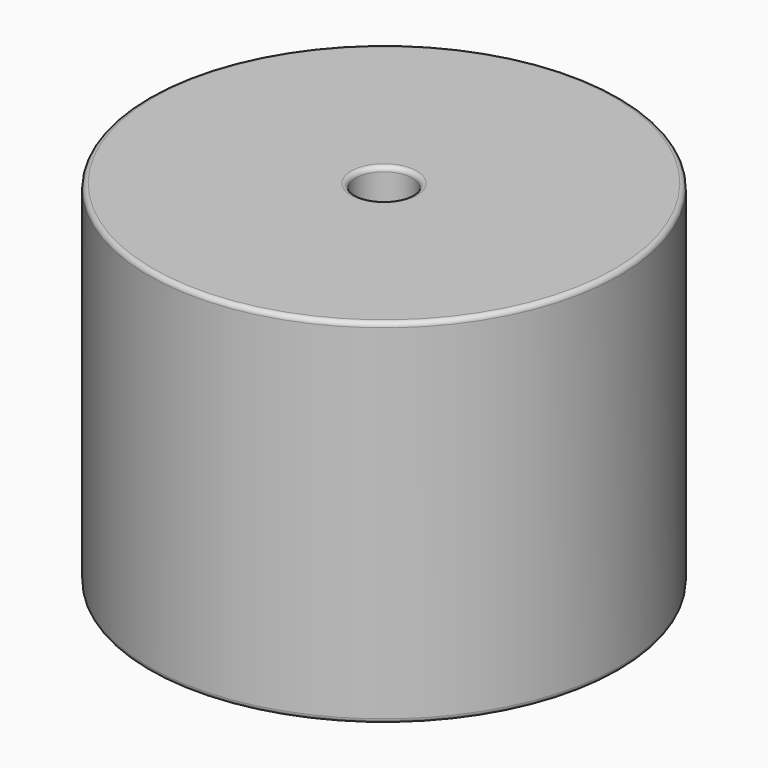
from build123d import *

# Parameters (mm, degrees)
SKETCH001_R       = 0.8
PAD001_DEPTH      = 19.05
PAD001_DEPTH_BACK = 3.5
SKETCH_R          = 25.4
SKETCH_R_2        = 3.05
PAD_DEPTH         = 38.1
FILLET_R          = 0.5


with BuildPart() as pad001:
    # Sketch001 → Pad001 (new body, two sides)
    with BuildSketch(Plane.XY.offset(0.5)) as pad001_sk:
        Circle(SKETCH001_R)
        with Locations((34.29, 0)):
            Circle(SKETCH001_R)
    extrude(amount=PAD001_DEPTH)
    extrude(pad001_sk.sketch, amount=-PAD001_DEPTH_BACK)


with BuildPart() as obj1:
    # Sketch → Pad (new body)
    with BuildSketch(Plane.XY.offset(0.1)):
        with Locations((17.145, 0)):
            Circle(SKETCH_R)
        with Locations((17.145, 0)):
            Circle(SKETCH_R_2, mode=Mode.SUBTRACT)
    extrude(amount=PAD_DEPTH)

    # Fillet
    fillet_edges = [obj1.edges().sort_by_distance(p)[0] for p in [
        (14.095, 0, 38.2),
        (-8.255, 0, 38.2),
        (-8.255, 0, 0.1),
    ]]
    fillet(fillet_edges, radius=FILLET_R)

    # obj1: union Pad001
    add(pad001.part)


solid = obj1.part
